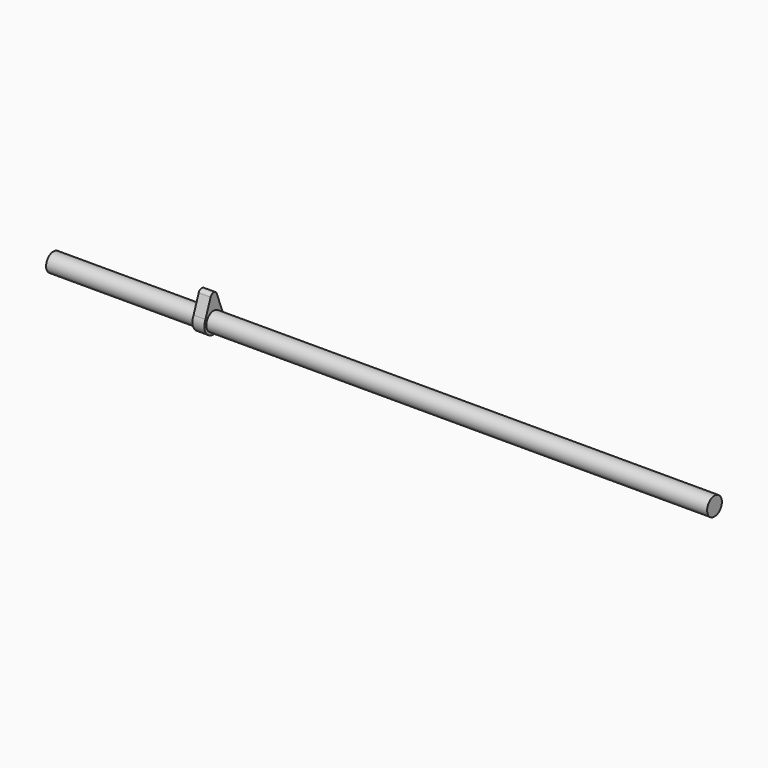
from build123d import *

# Parameters (mm, degrees)
F0_R     = 2.0701
F1_DEPTH = 73.9775
F3_DEPTH = 73.9648
F5_DEPTH = 33.1978
F6_DEPTH = 38.1127


with BuildPart() as f1:
    # F0 (on Right) → F1 (new body, symmetric)
    with BuildSketch(Plane.YZ):
        Circle(F0_R)
    extrude(amount=F1_DEPTH, both=True)

    # F2 (on Right) → F3 (join)
    with BuildSketch(Plane.YZ):
        with BuildLine():
            ThreePointArc((-2.3136596952, 1.2537271952), (-0.6466957718, -2.5508111737), (2.6315115552, 0))
            ThreePointArc((2.6315115552, 0), (2.5508111737, 0.6466957718), (2.3136596952, 1.2537271952))
            ThreePointArc((2.3136596952, 1.2537271952), (0, 2.6315115552), (-2.3136596952, 1.2537271952))
        make_face()
        with BuildLine():
            ThreePointArc((-2.3136596952, 1.2537271952), (0, 2.6315115552), (2.3136596952, 1.2537271952))
            Line((2.3136596952, 1.2537271952), (0.8742138073, 5.0605748032))
            ThreePointArc((0.8742138073, 5.0605748032), (0.9193959303, 4.8980330409), (0.9346220049, 4.7300169244))
            ThreePointArc((0.9346220049, 4.7300169244), (-0.1680161165, 3.8106209941), (-0.8742138073, 5.0605748032))
            Line((-0.8742138073, 5.0605748032), (-2.3136596952, 1.2537271952))
        make_face()
        with BuildLine():
            ThreePointArc((0.9346220049, 4.7300169244), (0.9193959303, 4.8980330409), (0.8742138073, 5.0605748032))
            ThreePointArc((0.8742138073, 5.0605748032), (0, 5.6646389293), (-0.8742138073, 5.0605748032))
            ThreePointArc((-0.8742138073, 5.0605748032), (-0.1680161165, 3.8106209941), (0.9346220049, 4.7300169244))
        make_face()
    extrude(amount=-F3_DEPTH)

    # F5 (cut): a face of the model
    f5_faces = [f1.faces().sort_by_distance(p)[0] for p in [
        (-73.9648, 0, -2.5332641506),
    ]]
    extrude(f5_faces, amount=-F5_DEPTH, mode=Mode.SUBTRACT)

    # F6 (cut): a face of the model
    f6_faces = [f1.faces().sort_by_distance(p)[0] for p in [
        (0, 0, -2.5332641506),
    ]]
    extrude(f6_faces, amount=-F6_DEPTH, mode=Mode.SUBTRACT)


solid = f1.part
